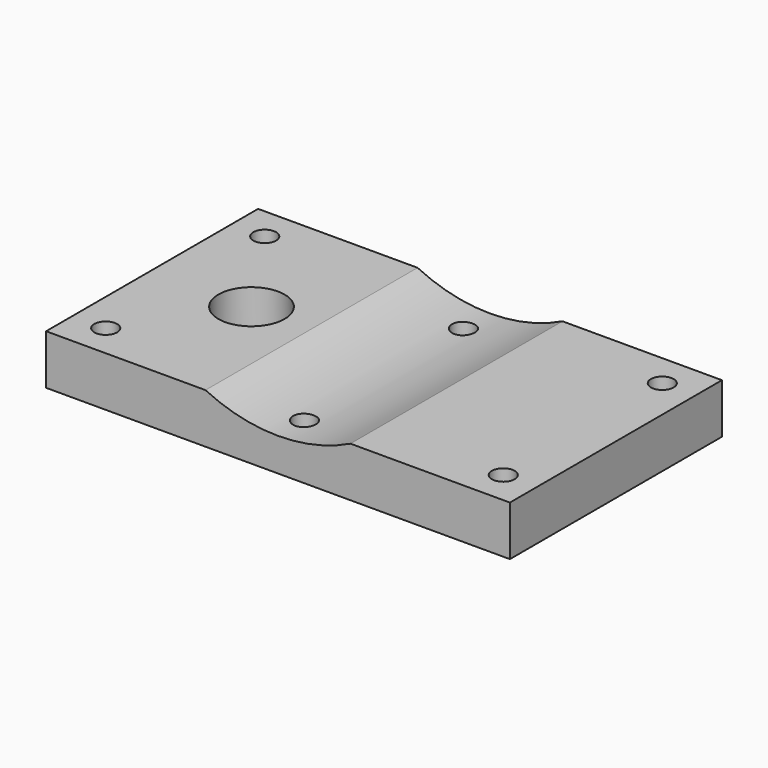
from build123d import *

# Parameters (mm, degrees)
F0_W     = 44.45
F0_H     = 25.4
F1_DEPTH = 4.7752
F2_R     = 1.0922
F2_R_2   = 3.175
F3_DEPTH = 4.7762
F4_R     = 15.875
F5_DEPTH = 25.401


with BuildPart() as f1:
    # F0 (on Top) → F1 (new body)
    with BuildSketch(Plane.XY):
        Rectangle(F0_W, F0_H)
    extrude(amount=F1_DEPTH)

    # F2 (on face) → F3 (cut, through all)
    with BuildSketch(Plane.XY.offset(4.7752)):
        with Locations((-19.05, 9.525)):
            Circle(F2_R)
        with Locations((19.05, 9.525)):
            Circle(F2_R)
        with Locations((19.05, -9.525)):
            Circle(F2_R)
        with Locations((-19.05, -9.525)):
            Circle(F2_R)
        with Locations((-12.7, 0)):
            Circle(F2_R_2)
        with Locations((0, 9.525)):
            Circle(F2_R)
        with Locations((0, -9.525)):
            Circle(F2_R)
    extrude(amount=-F3_DEPTH, mode=Mode.SUBTRACT)

    # F4 (on face) → F5 (cut, through all)
    with BuildSketch(Plane.XZ.offset(12.7)):
        with Locations((0, 19.05)):
            Circle(F4_R)
    extrude(amount=-F5_DEPTH, mode=Mode.SUBTRACT)


solid = f1.part
